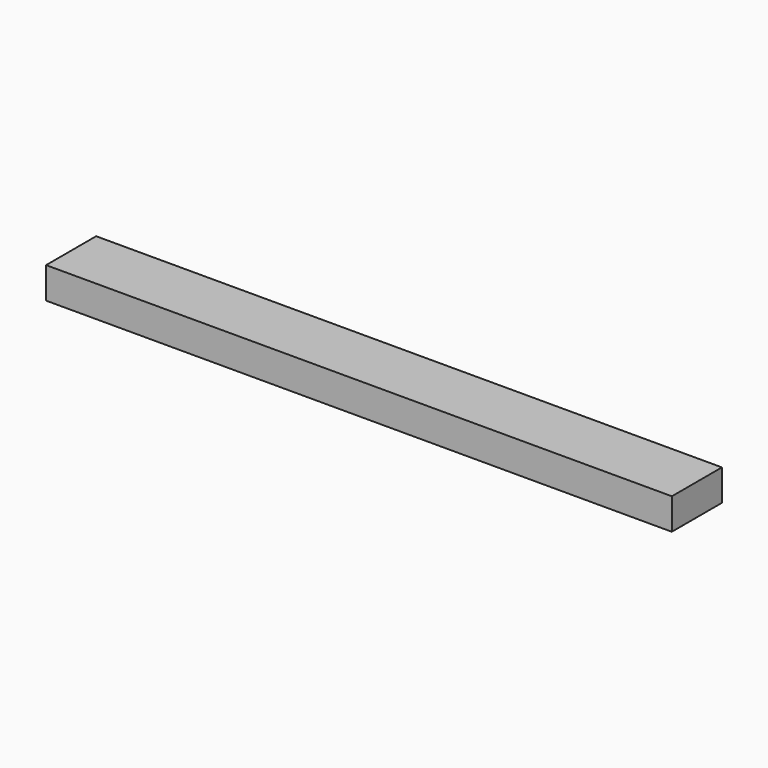
from build123d import *

# Parameters (mm, degrees)
F0_W     = 100
F0_H     = 50
F1_DEPTH = 1000
F2_SIZE  = 0.1


with BuildPart() as f1:
    # F0 (on Right) → F1 (new body)
    with BuildSketch(Plane.YZ):
        Rectangle(F0_W, F0_H)
    extrude(amount=F1_DEPTH)

    # F2
    f2_edges = [f1.edges().sort_by_distance(p)[0] for p in [
        (1000, 0, -25),
    ]]
    chamfer(f2_edges, length=F2_SIZE)


solid = f1.part
